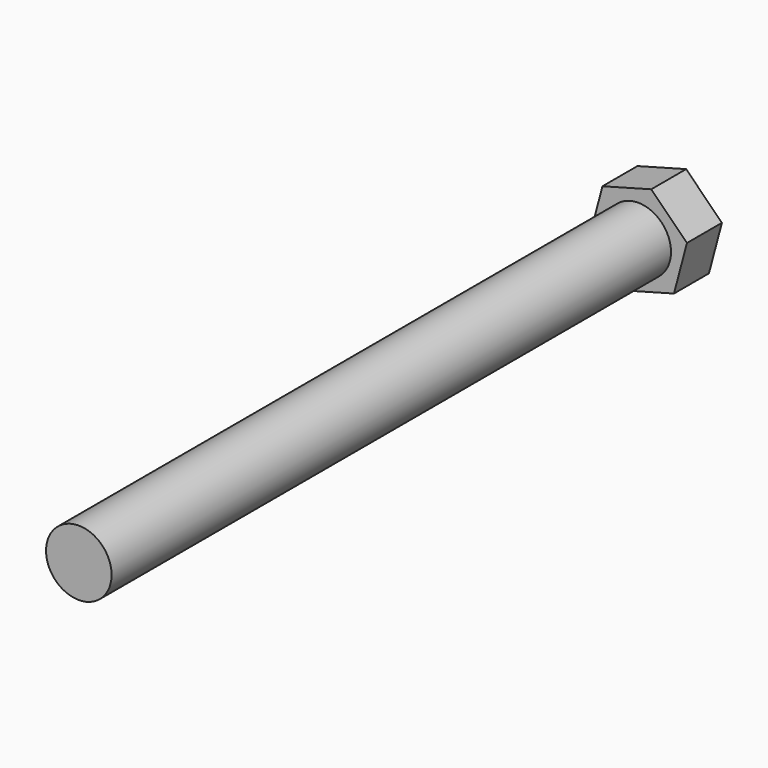
from build123d import *

# Parameters (mm, degrees)
F0_R     = 4.7625
F1_DEPTH = 101.6
F3_DEPTH = 6.35


with BuildPart() as f1:
    # F0 (on Front) → F1 (new body)
    with BuildSketch(Plane.XZ):
        Circle(F0_R)
    extrude(amount=F1_DEPTH)

    # F2 (on Front) → F3 (join)
    with BuildSketch(Plane.XZ):
        Polygon((5.193598, -5.175893), (7.079254, 1.909842), (1.885656, 7.085735), (-5.193598, 5.175893), (-7.079254, -1.909842), (-1.885656, -7.085735), align=None)
    extrude(amount=-F3_DEPTH)


solid = f1.part
